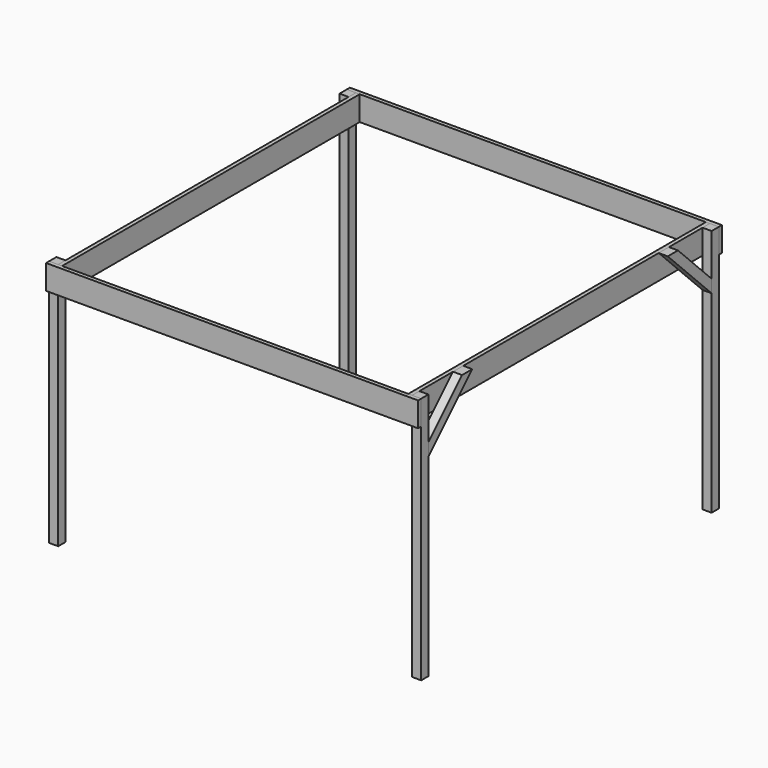
from build123d import *

# Parameters (mm, degrees)
F0_W     = 88.9
F0_H     = 88.9
F1_DEPTH = 2438.4
F2_W     = 38.1
F2_H     = 3657.6
F3_DEPTH = 241.3
F4_W     = 3657.6
F4_H     = 38.1
F5_DEPTH = 241.3
F7_DEPTH = 88.9


with BuildPart() as f1:
    # F0 (on Top) → F1 (new body)
    with BuildSketch(Plane.XY):
        with Locations((-1784.35, 1784.35)):
            Rectangle(F0_W, F0_H)
    extrude(amount=F1_DEPTH)


with BuildPart() as f1b:
    # F0 (on Top) → F1, piece 2 (new body)
    with BuildSketch(Plane.XY):
        with Locations((1784.35, 1784.35)):
            Rectangle(F0_W, F0_H)
    extrude(amount=F1_DEPTH)


with BuildPart() as f1c:
    # F0 (on Top) → F1, piece 3 (new body)
    with BuildSketch(Plane.XY):
        with Locations((1784.35, -1784.35)):
            Rectangle(F0_W, F0_H)
    extrude(amount=F1_DEPTH)


with BuildPart() as f1d:
    # F0 (on Top) → F1, piece 4 (new body)
    with BuildSketch(Plane.XY):
        with Locations((-1784.35, -1784.35)):
            Rectangle(F0_W, F0_H)
    extrude(amount=F1_DEPTH)


with BuildPart() as f3:
    # F2 (on face) → F3 (new body)
    with BuildSketch(Plane.XY.offset(2438.4)):
        with Locations((-1720.85, 0)):
            Rectangle(F2_W, F2_H)
    extrude(amount=-F3_DEPTH)


with BuildPart() as f3b:
    # F2 (on face) → F3, piece 2 (new body)
    with BuildSketch(Plane.XY.offset(2438.4)):
        with Locations((1720.85, 0)):
            Rectangle(F2_W, F2_H)
    extrude(amount=-F3_DEPTH)


with BuildPart() as f5:
    # F4 (on face) → F5 (new body, through all)
    with BuildSketch(Plane.XY.offset(2438.4)):
        with Locations((0, -1847.85)):
            Rectangle(F4_W, F4_H)
    extrude(amount=-F5_DEPTH)


with BuildPart() as f5b:
    # F4 (on face) → F5, piece 2 (new body, through all)
    with BuildSketch(Plane.XY.offset(2438.4)):
        with Locations((0, 1847.85)):
            Rectangle(F4_W, F4_H)
    extrude(amount=-F5_DEPTH)


with BuildPart() as f7:
    # F6 (on face) → F7 (new body, through all)
    with BuildSketch(Plane.YZ.offset(1739.9)):
        Polygon((-1326.8082184308, 2438.4), (-1739.9, 2025.3082184308), (-1739.9, 1899.5846327359), (-1201.0846327359, 2438.4), align=None)
    extrude(amount=F7_DEPTH)


with BuildPart() as f7b:
    # F6 (on face) → F7, piece 2 (new body, through all)
    with BuildSketch(Plane.YZ.offset(1739.9)):
        Polygon((1739.9, 1899.5846327359), (1739.9, 2025.3082184308), (1326.8082184308, 2438.4), (1201.0846327359, 2438.4), align=None)
    extrude(amount=F7_DEPTH)


solid = Compound([f1.part, f1b.part, f1c.part, f1d.part, f3.part, f3b.part, f5.part, f5b.part, f7.part, f7b.part])
